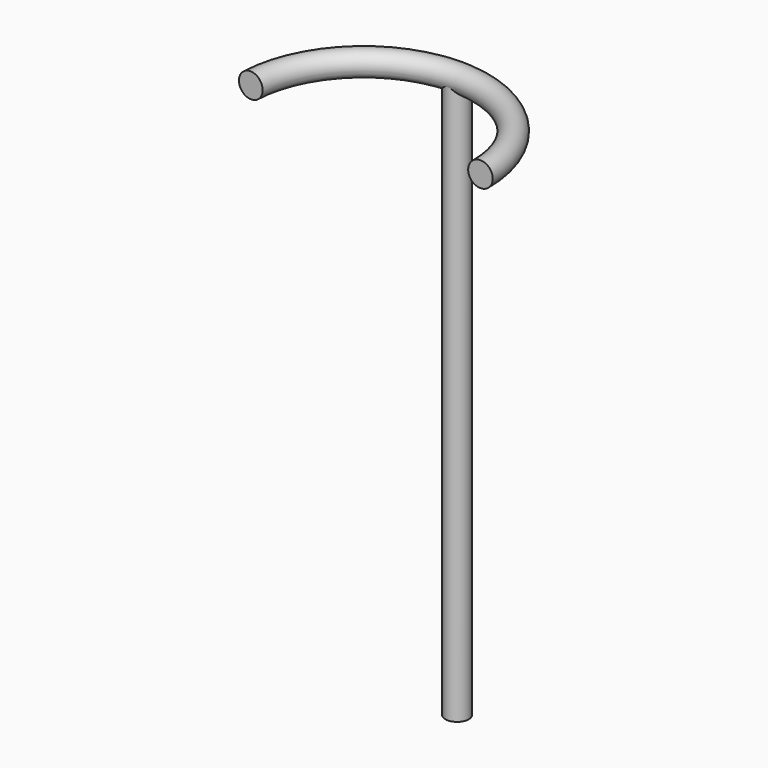
from build123d import *

# Parameters (mm, degrees)
F0_R     = 50.8
F1_DEPTH = 2438.4
F6_R     = 53.34


with BuildPart() as f1:
    # F0 (on Top) → F1 (new body)
    with BuildSketch(Plane.XY):
        Circle(F0_R)
    extrude(amount=F1_DEPTH)

    # F7: sweep along a path in F4
    with BuildLine(Plane.XY.offset(2438.4)) as f7_path:
        ThreePointArc((-507.4718634391, -484.8416792996), (11.5821710604, -0.1320513032), (508, -508))
    # F6 (on line) → F7 (sweep)
    with BuildSketch(Plane(origin=(-23.1342444093, -506.9442759495, 0), x_dir=(-0.9989603611, 0.0455872455, 0), z_dir=(0.0455872455, 0.9989603611, 0))):
        with Locations((484.8416745663, 2438.4000301361)):
            Circle(F6_R)
    sweep(path=f7_path.line)


solid = f1.part
